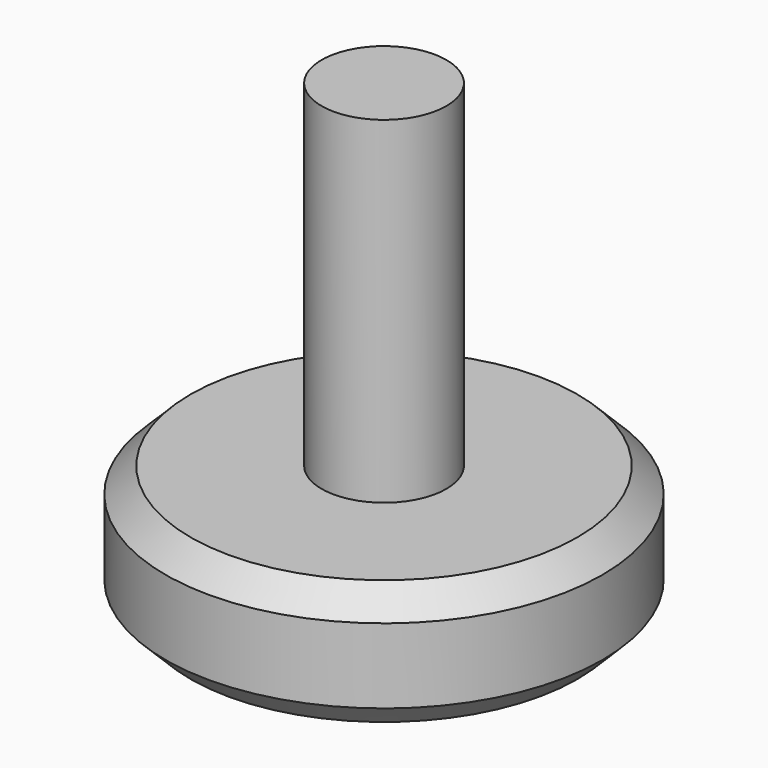
from build123d import *

# Parameters (mm, degrees)
F0_R     = 17.5
F1_DEPTH = 10
F2_R     = 5
F3_DEPTH = 27
F4_SIZE  = 2


with BuildPart() as f1:
    # F0 (on Top) → F1 (new body)
    with BuildSketch(Plane.XY):
        Circle(F0_R)
    extrude(amount=F1_DEPTH)

    # F2 (on face) → F3 (join)
    with BuildSketch(Plane.XY.offset(10)):
        Circle(F2_R)
    extrude(amount=F3_DEPTH)

    # F4
    f4_edges = [f1.edges().sort_by_distance(p)[0] for p in [
        (-17.5, 0, 10),
        (-17.5, 0, 0),
    ]]
    chamfer(f4_edges, length=F4_SIZE)


solid = f1.part
